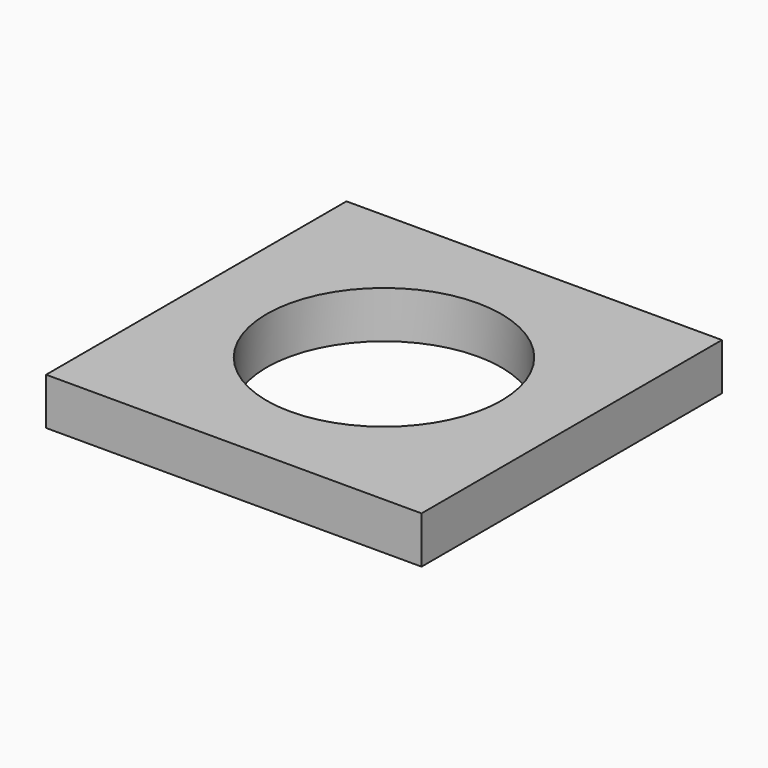
from build123d import *

# Parameters (mm, degrees)
F0_R     = 12.5
F1_DEPTH = 5


with BuildPart() as f1:
    # F0 (on Top) → F1 (new body)
    with BuildSketch(Plane.XY):
        Polygon((-20, 20), (-20, 0), (-20, -20), (20, -20), (20, 20), align=None)
        Circle(F0_R, mode=Mode.SUBTRACT)
    extrude(amount=F1_DEPTH)


solid = f1.part
